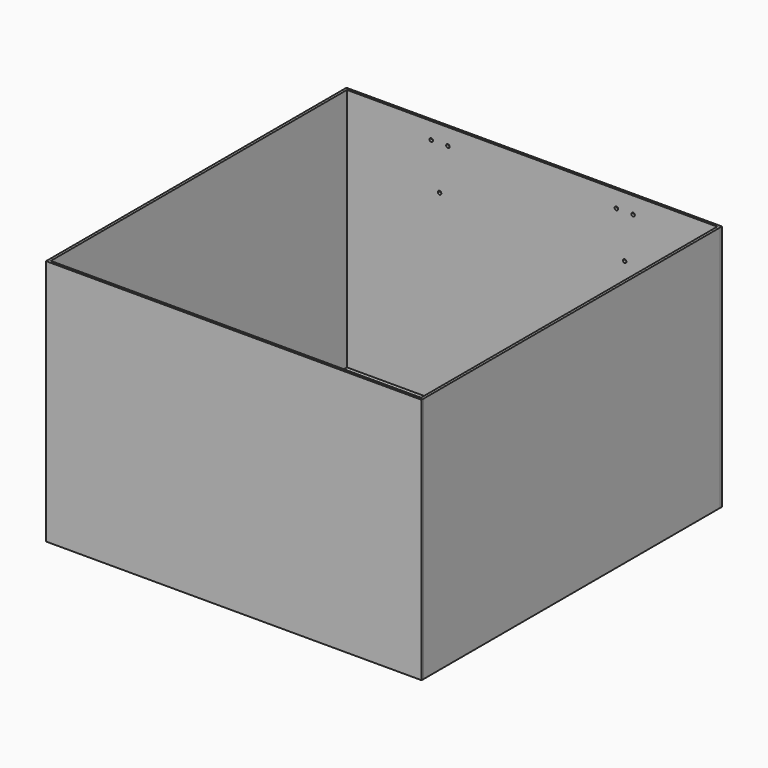
from build123d import *

# Parameters (mm, degrees)
F0_W       = 457.2
F0_H       = 457.2
F1_DEPTH   = 3.175
F3_DEPTH   = 3.175
F5_W       = 463.55
F5_H       = 307.975
F6_DEPTH   = 3.175
F9_D       = 4.318
F3_FACE_W  = 3.175
F3_FACE_H  = 457.2
F6_FACE_W  = 463.55
F6_FACE_H  = 3.175
F7_FACE1_W = 463.55
F7_FACE1_H = 3.175
F4_FACE_W  = 3.175
F4_FACE_H  = 457.2
F11_DEPTH  = 3.175


with BuildPart() as f1:
    # F0 (on Top) → F1 (new body)
    with BuildSketch(Plane.XY):
        Rectangle(F0_W, F0_H)
    extrude(amount=F1_DEPTH)


with BuildPart() as f3:
    # F2 (on face) → F3 (new body)
    with BuildSketch(Plane.YZ.offset(228.6)):
        Polygon((-228.6, 3.175), (-228.6, 0), (228.6, 0), (228.6, 3.175), (228.6, 307.975), (-228.6, 307.975), align=None)
    extrude(amount=F3_DEPTH)


with BuildPart() as f4_1:
    # F4: instance of F3
    add(f3.part.mirror(Plane.YZ))


with BuildPart() as f6:
    # F5 (on face) → F6 (new body)
    with BuildSketch(Plane.XZ.offset(228.6)):
        with Locations((0, 153.9875)):
            Rectangle(F5_W, F5_H)
    extrude(amount=F6_DEPTH)


with BuildPart() as f7_1:
    # F7: instance of F6
    add(f6.part.mirror(Plane.XZ))

    # F9 (through all)
    with Locations(Plane.XZ.offset(-228.6)):
        with Locations((103.9749, 287.3502), (124.6251, 287.3502), (114.3, 233.3752), (-114.3, 233.3752), (-124.6251, 287.3502), (-103.9749, 287.3502)):
            Hole(F9_D / 2)


with BuildPart() as f1_1:
    # F10: moved
    add(f1.part.moved(Location((0, 0, 3.175))))


with BuildPart() as f11_tool:
    # F3_face (on face) + F6_face (on face) + F7_face1 (on face) + F4_face (on face) → F11 (new body)
    with BuildSketch(Plane(origin=(230.1875, 0, 0), x_dir=(1, 0, 0), z_dir=(0, 0, -1))):
        Rectangle(F3_FACE_W, F3_FACE_H)
    with BuildSketch(Plane(origin=(0, -230.1875, 0), x_dir=(1, 0, 0), z_dir=(0, 0, -1))):
        Rectangle(F6_FACE_W, F6_FACE_H)
    with BuildSketch(Plane(origin=(0, 230.1875, 0), x_dir=(1, 0, 0), z_dir=(0, 0, -1))):
        Rectangle(F7_FACE1_W, F7_FACE1_H)
    with BuildSketch(Plane(origin=(-230.1875, 0, 0), x_dir=(1, 0, 0), z_dir=(0, 0, -1))):
        Rectangle(F4_FACE_W, F4_FACE_H)
    extrude(amount=-F11_DEPTH)


with BuildPart() as f3_1:
    add(f3.part)

    # F11: cut by f11_tool
    add(f11_tool.part, mode=Mode.SUBTRACT)


with BuildPart() as f4_1_1:
    add(f4_1.part)

    # F11: cut by f11_tool
    add(f11_tool.part, mode=Mode.SUBTRACT)


with BuildPart() as f6_1:
    add(f6.part)

    # F11: cut by f11_tool
    add(f11_tool.part, mode=Mode.SUBTRACT)


with BuildPart() as f7_1_1:
    add(f7_1.part)

    # F11: cut by f11_tool
    add(f11_tool.part, mode=Mode.SUBTRACT)


solid = Compound([f1_1.part, f3_1.part, f4_1_1.part, f6_1.part, f7_1_1.part])
